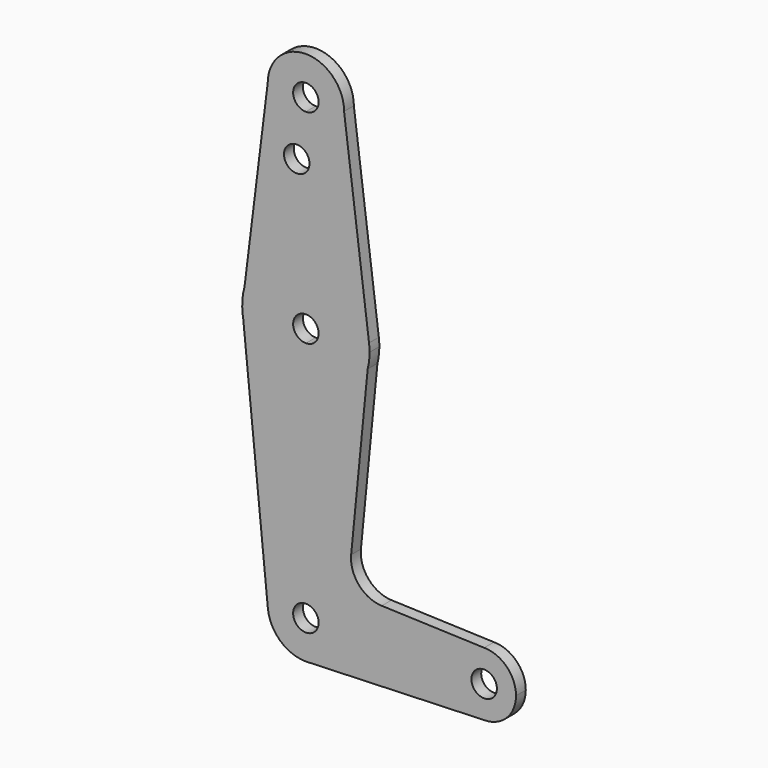
from build123d import *

# Parameters (mm, degrees)
F1_DEPTH = 3.048


with BuildPart() as f1:
    # F0 (on Front) → F1 (new body)
    with BuildSketch(Plane.XZ):
        with BuildLine():
            ThreePointArc((-167.6439475372, 120.3942512914), (-164.854139628, 113.6590592006), (-158.1189475372, 110.8692512914))
            ThreePointArc((-158.1189475372, 110.8692512914), (-151.3837554464, 113.6590592006), (-148.5939475372, 120.3942512914))
            ThreePointArc((-148.5939475372, 120.3942512914), (-158.1189475372, 129.9192512914), (-167.6439475372, 120.3942512914))
        make_face()
        with BuildLine():
            ThreePointArc((-154.9439475372, 120.3942512914), (-155.8738835069, 118.1491872611), (-158.1189475372, 117.2192512914))
            ThreePointArc((-158.1189475372, 117.2192512914), (-160.3640115674, 122.6393153216), (-154.9439475372, 120.3942512914))
        make_face(mode=Mode.SUBTRACT)
        with BuildLine():
            ThreePointArc((-148.5939475372, 120.3942512914), (-151.3837554464, 113.6590592006), (-158.1189475372, 110.8692512914))
            Line((-158.1189475372, 110.8692512914), (-158.1189475372, 108.3320391697))
            ThreePointArc((-158.1189475372, 108.3320391697), (-157.4540571626, 107.3133745246), (-157.2210245848, 106.1194512914))
            ThreePointArc((-157.2210245848, 106.1194512914), (-157.4540571626, 104.9255280581), (-158.1189475372, 103.906863413))
            Line((-158.1189475372, 103.906863413), (-158.1189475372, 85.4692512914))
            ThreePointArc((-158.1189475372, 85.4692512914), (-147.6276646823, 81.5084700681), (-142.3714906325, 71.6025406217))
            Line((-142.3714906325, 71.6025406217), (-148.5939475372, 120.3942512914))
        make_face()
        with BuildLine():
            Line((-158.1189475372, 108.3320391697), (-158.1189475372, 110.8692512914))
            ThreePointArc((-158.1189475372, 110.8692512914), (-164.854139628, 113.6590592006), (-167.6439475372, 120.3942512914))
            Line((-167.6439475372, 120.3942512914), (-173.4200971451, 73.8239611721))
            ThreePointArc((-173.4200971451, 73.8239611721), (-167.7332332788, 82.226793976), (-158.1189475372, 85.4692512914))
            Line((-158.1189475372, 85.4692512914), (-158.1189475372, 103.906863413))
            ThreePointArc((-158.1189475372, 103.906863413), (-163.5710245848, 106.1194512914), (-158.1189475372, 108.3320391697))
        make_face()
        with BuildLine():
            Line((-173.9897870951, 69.2308276747), (-173.4200971451, 73.8239611721))
            ThreePointArc((-173.4200971451, 73.8239611721), (-173.8732309538, 71.5482674194), (-173.9897870951, 69.2308276747))
        make_face()
        with BuildLine():
            ThreePointArc((-158.1189475372, 85.4692512914), (-167.7332332788, 82.226793976), (-173.4200971451, 73.8239611721))
            Line((-173.4200971451, 73.8239611721), (-173.9897870951, 69.2308276747))
            Line((-173.9897870951, 69.2308276747), (-173.7487959124, 66.8151390646))
            ThreePointArc((-173.7487959124, 66.8151390646), (-168.3144666118, 57.4259722101), (-158.1189475372, 53.7192512914))
            Line((-158.1189475372, 53.7192512914), (-158.1189475372, 66.4192512914))
            ThreePointArc((-158.1189475372, 66.4192512914), (-161.2939475372, 69.5942512914), (-158.1189475372, 72.7692512914))
            Line((-158.1189475372, 72.7692512914), (-158.1189475372, 85.4692512914))
        make_face()
        with BuildLine():
            ThreePointArc((-142.2439475372, 69.5942512914), (-142.2758653976, 70.6004189309), (-142.3714906325, 71.6025406217))
            ThreePointArc((-142.3714906325, 71.6025406217), (-147.6276646823, 81.5084700681), (-158.1189475372, 85.4692512914))
            Line((-158.1189475372, 85.4692512914), (-158.1189475372, 72.7692512914))
            ThreePointArc((-158.1189475372, 72.7692512914), (-155.8738835069, 71.8393153216), (-154.9439475372, 69.5942512914))
            ThreePointArc((-154.9439475372, 69.5942512914), (-155.8738835069, 67.3491872611), (-158.1189475372, 66.4192512914))
            Line((-158.1189475372, 66.4192512914), (-158.1189475372, 53.7192512914))
            ThreePointArc((-158.1189475372, 53.7192512914), (-148.3349991612, 57.0926522266), (-142.7091837744, 65.7791751746))
            ThreePointArc((-142.7091837744, 65.7791751746), (-142.3606858194, 67.6725820604), (-142.2439475372, 69.5942512914))
        make_face()
        with BuildLine():
            Line((-173.7487959124, 66.8151390646), (-173.9897870951, 69.2308276747))
            ThreePointArc((-173.9897870951, 69.2308276747), (-173.9155365022, 68.0183699287), (-173.7487959124, 66.8151390646))
        make_face()
        with BuildLine():
            ThreePointArc((-158.1189475372, 53.7192512914), (-168.3144666118, 57.4259722101), (-173.7487959124, 66.8151390646))
            Line((-173.7487959124, 66.8151390646), (-167.5969009162, 5.1487224737))
            ThreePointArc((-167.5969009162, 5.1487224737), (-165.18052622, 12.4864130154), (-158.1189475372, 15.6192512914))
            Line((-158.1189475372, 15.6192512914), (-158.1189475372, 53.7192512914))
        make_face()
        with BuildLine():
            Line((-146.8296424977, 23.6628574718), (-142.7091837744, 65.7791751746))
            ThreePointArc((-142.7091837744, 65.7791751746), (-148.3349991612, 57.0926522266), (-158.1189475372, 53.7192512914))
            Line((-158.1189475372, 53.7192512914), (-158.1189475372, 15.6192512914))
            ThreePointArc((-158.1189475372, 15.6192512914), (-151.3837554464, 12.8294433822), (-148.5939475372, 6.0942512914))
            Line((-148.5939475372, 6.0942512914), (-121.6064475372, 6.0942512914))
            ThreePointArc((-121.6064475372, 6.0942512914), (-119.2816076128, 11.706911367), (-113.6689475372, 14.0317512914))
            Line((-113.6689475372, 14.0317512914), (-139.2009748972, 14.9436094114))
            ThreePointArc((-139.2009748972, 14.9436094114), (-144.900584689, 17.6537627791), (-146.8296424977, 23.6628574718))
        make_face()
        with BuildLine():
            ThreePointArc((-158.1189475372, 15.6192512914), (-165.18052622, 12.4864130154), (-167.5969009162, 5.1487224737))
            ThreePointArc((-167.5969009162, 5.1487224737), (-164.4920650683, -0.9845196425), (-158.0676348173, -3.4306104927))
            Line((-158.0676348173, -3.4306104927), (-157.4899244458, -3.4099559323))
            ThreePointArc((-157.4899244458, -3.4099559323), (-151.1649174127, -0.4147494021), (-148.5939475372, 6.0942512914))
            Line((-148.5939475372, 6.0942512914), (-154.9439475372, 6.0942512914))
            ThreePointArc((-154.9439475372, 6.0942512914), (-160.3640115674, 3.8491872611), (-158.1189475372, 9.2692512914))
            Line((-158.1189475372, 9.2692512914), (-158.1189475372, 15.6192512914))
        make_face()
        with BuildLine():
            Line((-157.4899244458, -3.4099559323), (-158.0676348173, -3.4306104927))
            ThreePointArc((-158.0676348173, -3.4306104927), (-157.7786229028, -3.424666932), (-157.4899244458, -3.4099559323))
        make_face()
        with BuildLine():
            Line((-121.6064475372, 6.0942512914), (-148.5939475372, 6.0942512914))
            ThreePointArc((-148.5939475372, 6.0942512914), (-151.1649174127, -0.4147494021), (-157.4899244458, -3.4099559323))
            Line((-157.4899244458, -3.4099559323), (-113.6689475372, -1.8432487086))
            ThreePointArc((-113.6689475372, -1.8432487086), (-119.2816076128, 0.4815912157), (-121.6064475372, 6.0942512914))
        make_face()
        with BuildLine():
            ThreePointArc((-105.7314475372, 6.0942512914), (-108.0562874615, 11.706911367), (-113.6689475372, 14.0317512914))
            ThreePointArc((-113.6689475372, 14.0317512914), (-119.2816076128, 11.706911367), (-121.6064475372, 6.0942512914))
            ThreePointArc((-121.6064475372, 6.0942512914), (-119.2816076128, 0.4815912157), (-113.6689475372, -1.8432487086))
            ThreePointArc((-113.6689475372, -1.8432487086), (-108.0562874615, 0.4815912157), (-105.7314475372, 6.0942512914))
        make_face()
        with BuildLine():
            ThreePointArc((-110.4939475372, 6.0942512914), (-113.6689475372, 2.9192512914), (-116.8439475372, 6.0942512914))
            ThreePointArc((-116.8439475372, 6.0942512914), (-113.6689475372, 9.2692512914), (-110.4939475372, 6.0942512914))
        make_face(mode=Mode.SUBTRACT)
        with BuildLine():
            ThreePointArc((-148.5939475372, 6.0942512914), (-151.3837554464, 12.8294433822), (-158.1189475372, 15.6192512914))
            Line((-158.1189475372, 15.6192512914), (-158.1189475372, 9.2692512914))
            ThreePointArc((-158.1189475372, 9.2692512914), (-155.8738835069, 8.3393153216), (-154.9439475372, 6.0942512914))
            Line((-154.9439475372, 6.0942512914), (-148.5939475372, 6.0942512914))
        make_face()
    extrude(amount=F1_DEPTH)


solid = f1.part
